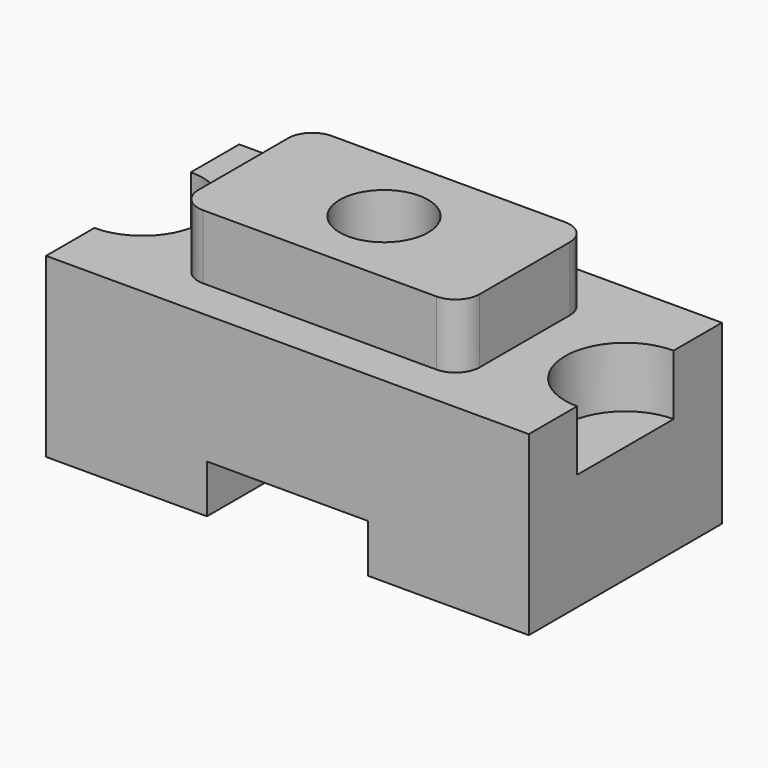
from build123d import *

# Parameters (mm, degrees)
F0_W     = 120
F0_H     = 60
F1_DEPTH = 44
F3_DEPTH = 16
F5_DEPTH = 15
F6_W     = 40
F6_H     = 12
F7_DEPTH = 60
F8_R     = 11
F9_DEPTH = 60.001


with BuildPart() as f1:
    # F0 (on Top) → F1 (new body)
    with BuildSketch(Plane.XY):
        with Locations((-26.462575, 17.752543)):
            Rectangle(F0_W, F0_H)
    extrude(amount=F1_DEPTH)

    # F2 (on face) → F3 (join)
    with BuildSketch(Plane.XY.offset(44)):
        with BuildLine():
            ThreePointArc((-61.462575, 3.752543), (-59.705216, -0.490098), (-55.462575, -2.247457))
            Line((-55.462575, -2.247457), (2.537425, -2.247457))
            ThreePointArc((2.537425, -2.247457), (6.780066, -0.490098), (8.537425, 3.752543))
            Line((8.537425, 3.752543), (8.537425, 31.752543))
            ThreePointArc((8.537425, 31.752543), (6.780066, 35.995184), (2.537425, 37.752543))
            Line((2.537425, 37.752543), (-55.462575, 37.752543))
            ThreePointArc((-55.462575, 37.752543), (-59.705216, 35.995184), (-61.462575, 31.752543))
            Line((-61.462575, 31.752543), (-61.462575, 3.752543))
        make_face()
    extrude(amount=F3_DEPTH)

    # F4 (on face) → F5 (cut)
    with BuildSketch(Plane.XY.offset(44)):
        with BuildLine():
            Line((33.537425, 2.752543), (33.537425, 32.752543))
            ThreePointArc((33.537425, 32.752543), (18.537425, 17.752543), (33.537425, 2.752543))
        make_face()
        with BuildLine():
            Line((-86.462575, 32.752543), (-86.462575, 2.752543))
            ThreePointArc((-86.462575, 2.752543), (-71.462575, 17.752543), (-86.462575, 32.752543))
        make_face()
    extrude(amount=-F5_DEPTH, mode=Mode.SUBTRACT)

    # F6 (on face) → F7 (cut)
    with BuildSketch(Plane.XZ.offset(12.247457)):
        with Locations((-26.462575, 6)):
            Rectangle(F6_W, F6_H)
    extrude(amount=-F7_DEPTH, mode=Mode.SUBTRACT)

    # F8 (on face) → F9 (cut, through all)
    with BuildSketch(Plane.XY.offset(60)):
        with Locations((-26.462575, 17.752543)):
            Circle(F8_R)
    extrude(amount=-F9_DEPTH, mode=Mode.SUBTRACT)


solid = f1.part
